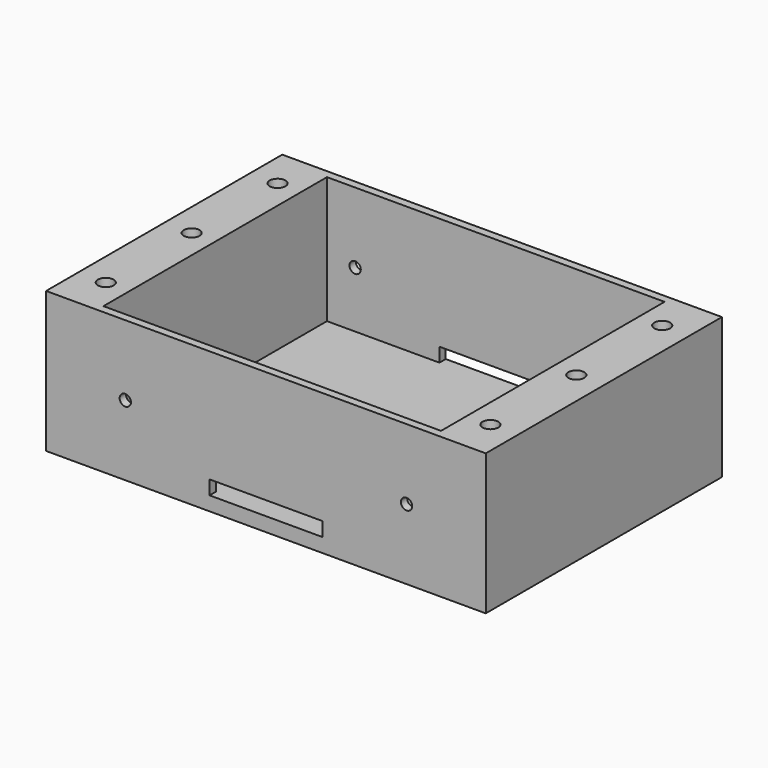
from build123d import *

# Parameters (mm, degrees)
F0_W     = 5
F0_H     = 104.775
F0_W_2   = 146.05
F0_R     = 3.24
F1_DEPTH = 50
F2_W     = 119.824
F2_H     = 99.175
F3_DEPTH = 45
F4_D     = 5.6
F4_DEPTH = 20
F4_TIP   = 1.6824097333
F5_W     = 40
F5_H     = 5
F6_DEPTH = 104.776
F7_D     = 4


with BuildPart() as f1:
    # F0 (on Top) → F1 (new body)
    with BuildSketch(Plane.XY):
        with Locations((-75.525, 0)):
            Rectangle(F0_W, F0_H)
        Rectangle(F0_W_2, F0_H)
        with Locations((-68.262, -38.0995)):
            Circle(F0_R, mode=Mode.SUBTRACT)
        with Locations((68.262, -38.0995)):
            Circle(F0_R, mode=Mode.SUBTRACT)
        with Locations((-68.262, 0.0005)):
            Circle(F0_R, mode=Mode.SUBTRACT)
        with BuildLine():
            ThreePointArc((68.262, 44.4495), (61.912, 38.0995), (68.262, 31.7495))
            Line((68.262, 31.7495), (72.225, 31.7495))
            Line((72.225, 31.7495), (72.225, 6.3505))
            Line((72.225, 6.3505), (68.262, 6.3505))
            ThreePointArc((68.262, 6.3505), (61.912, 0.0005), (68.262, -6.3495))
            Line((68.262, -6.3495), (72.225, -6.3495))
            Line((72.225, -6.3495), (72.225, -31.7495))
            Line((72.225, -31.7495), (68.262, -31.7495))
            ThreePointArc((68.262, -31.7495), (61.912, -38.0995), (68.262, -44.4495))
            Line((68.262, -44.4495), (72.225, -44.4495))
            Line((72.225, -44.4495), (72.225, -51.5875))
            Line((72.225, -51.5875), (-72.225, -51.5875))
            Line((-72.225, -51.5875), (-72.225, -44.4495))
            Line((-72.225, -44.4495), (-68.262, -44.4495))
            ThreePointArc((-68.262, -44.4495), (-61.912, -38.0995), (-68.262, -31.7495))
            Line((-68.262, -31.7495), (-72.225, -31.7495))
            Line((-72.225, -31.7495), (-72.225, -6.3495))
            Line((-72.225, -6.3495), (-68.262, -6.3495))
            ThreePointArc((-68.262, -6.3495), (-61.912, 0.0005), (-68.262, 6.3505))
            Line((-68.262, 6.3505), (-72.225, 6.3505))
            Line((-72.225, 6.3505), (-72.225, 31.7495))
            Line((-72.225, 31.7495), (-68.262, 31.7495))
            ThreePointArc((-68.262, 31.7495), (-61.912, 38.0995), (-68.262, 44.4495))
            Line((-68.262, 44.4495), (-72.225, 44.4495))
            Line((-72.225, 44.4495), (-72.225, 51.5875))
            Line((-72.225, 51.5875), (72.225, 51.5875))
            Line((72.225, 51.5875), (72.225, 44.4495))
            Line((72.225, 44.4495), (68.262, 44.4495))
        make_face(mode=Mode.SUBTRACT)
        with Locations((-68.262, 38.0995)):
            Circle(F0_R, mode=Mode.SUBTRACT)
        with Locations((68.262, 0.0005)):
            Circle(F0_R, mode=Mode.SUBTRACT)
        with Locations((68.262, 38.0995)):
            Circle(F0_R, mode=Mode.SUBTRACT)
        with Locations((75.525, 0)):
            Rectangle(F0_W, F0_H)
        with Locations((-68.262, 38.0995)):
            Circle(F0_R)
        with BuildLine():
            Line((72.225, 31.7495), (68.262, 31.7495))
            ThreePointArc((68.262, 31.7495), (61.912, 38.0995), (68.262, 44.4495))
            Line((68.262, 44.4495), (72.225, 44.4495))
            Line((72.225, 44.4495), (72.225, 51.5875))
            Line((72.225, 51.5875), (-72.225, 51.5875))
            Line((-72.225, 51.5875), (-72.225, 44.4495))
            Line((-72.225, 44.4495), (-68.262, 44.4495))
            ThreePointArc((-68.262, 44.4495), (-61.912, 38.0995), (-68.262, 31.7495))
            Line((-68.262, 31.7495), (-72.225, 31.7495))
            Line((-72.225, 31.7495), (-72.225, 6.3505))
            Line((-72.225, 6.3505), (-68.262, 6.3505))
            ThreePointArc((-68.262, 6.3505), (-61.912, 0.0005), (-68.262, -6.3495))
            Line((-68.262, -6.3495), (-72.225, -6.3495))
            Line((-72.225, -6.3495), (-72.225, -31.7495))
            Line((-72.225, -31.7495), (-68.262, -31.7495))
            ThreePointArc((-68.262, -31.7495), (-61.912, -38.0995), (-68.262, -44.4495))
            Line((-68.262, -44.4495), (-72.225, -44.4495))
            Line((-72.225, -44.4495), (-72.225, -51.5875))
            Line((-72.225, -51.5875), (72.225, -51.5875))
            Line((72.225, -51.5875), (72.225, -44.4495))
            Line((72.225, -44.4495), (68.262, -44.4495))
            ThreePointArc((68.262, -44.4495), (61.912, -38.0995), (68.262, -31.7495))
            Line((68.262, -31.7495), (72.225, -31.7495))
            Line((72.225, -31.7495), (72.225, -6.3495))
            Line((72.225, -6.3495), (68.262, -6.3495))
            ThreePointArc((68.262, -6.3495), (61.912, 0.0005), (68.262, 6.3505))
            Line((68.262, 6.3505), (72.225, 6.3505))
            Line((72.225, 6.3505), (72.225, 31.7495))
        make_face()
        with Locations((-68.262, 0.0005)):
            Circle(F0_R)
        with Locations((-68.262, -38.0995)):
            Circle(F0_R)
        with Locations((68.262, -38.0995)):
            Circle(F0_R)
        with Locations((68.262, 0.0005)):
            Circle(F0_R)
        with Locations((68.262, 38.0995)):
            Circle(F0_R)
    extrude(amount=-F1_DEPTH)

    # F2 (on face) → F3 (cut)
    with BuildSketch(Plane.XY):
        Rectangle(F2_W, F2_H)
    extrude(amount=-F3_DEPTH, mode=Mode.SUBTRACT)

    # F4
    with Locations(Plane.XY):
        with Locations((-68.262, 38.0995), (-68.262, 0.0005), (-68.262, -38.0995), (68.262, -38.0995), (68.262, 38.0995), (68.262, 0.0005)):
            Hole(F4_D / 2, depth=F4_DEPTH)
            with Locations((0, 0, -(F4_DEPTH + F4_TIP / 2))):  # 118° drill point
                Cone(0, F4_D / 2, F4_TIP, mode=Mode.SUBTRACT)

    # F5 (on face) → F6 (cut, through all)
    with BuildSketch(Plane(origin=(0, 52.3875, 0), x_dir=(-1, 0, 0), z_dir=(0, 1, 0))):
        with Locations((0, -42.5)):
            Rectangle(F5_W, F5_H)
    extrude(amount=-F6_DEPTH, mode=Mode.SUBTRACT)

    # F7 (through all)
    with Locations(Plane(origin=(0, 52.3875, 0), x_dir=(-1, 0, 0), z_dir=(0, 1, 0))):
        with Locations((-49.912, -25), (49.912, -25)):
            Hole(F7_D / 2)


solid = f1.part
